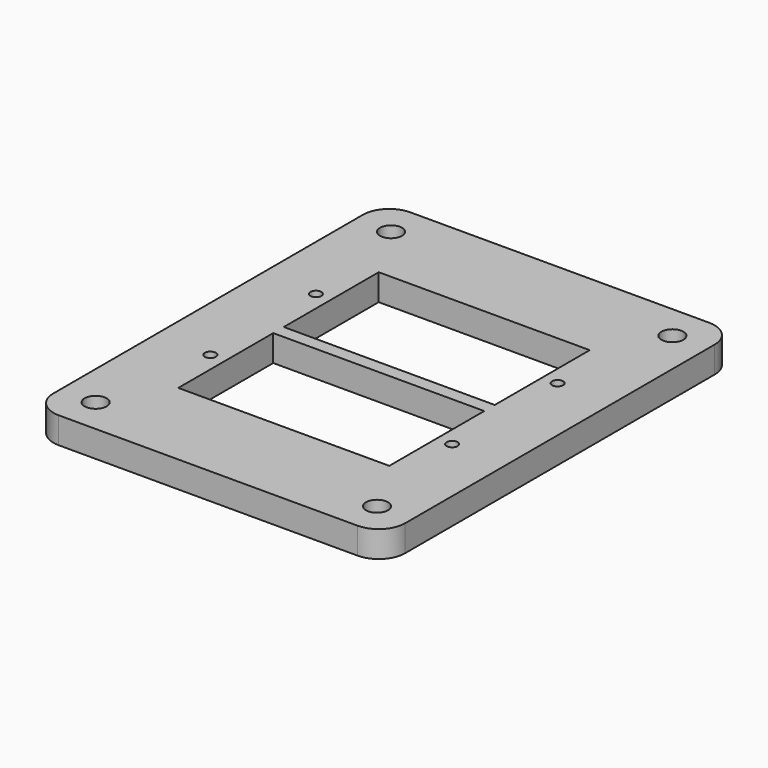
from build123d import *

# Parameters (mm, degrees)
F0_R     = 0.625
F0_W     = 24
F0_H     = 13.5
F0_R_2   = 1.25
F1_DEPTH = 3
F3_R     = 3


with BuildPart() as f1:
    # F0 (on Top) → F1 (new body)
    with BuildSketch(Plane.XY):
        Polygon((20, -12.5), (20, 12.5), (16, 12.5), (-20, 12.5), (-20, -12.5), align=None)
        with Locations((-13.75, -5)):
            Circle(F0_R, mode=Mode.SUBTRACT)
        with Locations((0, -5)):
            Rectangle(F0_W, F0_H, mode=Mode.SUBTRACT)
        with Locations((13.75, -5)):
            Circle(F0_R, mode=Mode.SUBTRACT)
        with Locations((-16, 8.5)):
            Circle(F0_R_2, mode=Mode.SUBTRACT)
        with Locations((16, 8.5)):
            Circle(F0_R_2, mode=Mode.SUBTRACT)
    extrude(amount=F1_DEPTH)

    # F2: F1 across face


with BuildPart() as f1_1:
    add(f1.part)
    add(f1.part.mirror(Plane(origin=(0, -12.5, 1.5), x_dir=(1, 0, 0), z_dir=(0, -1, 0))))

    # F3
    f3_edges = [f1_1.edges().sort_by_distance(p)[0] for p in [
        (-20, -37.5, 1.5),
        (20, -37.5, 1.5),
        (20, 12.5, 1.5),
        (-20, 12.5, 1.5),
    ]]
    fillet(f3_edges, radius=F3_R)


solid = f1_1.part
